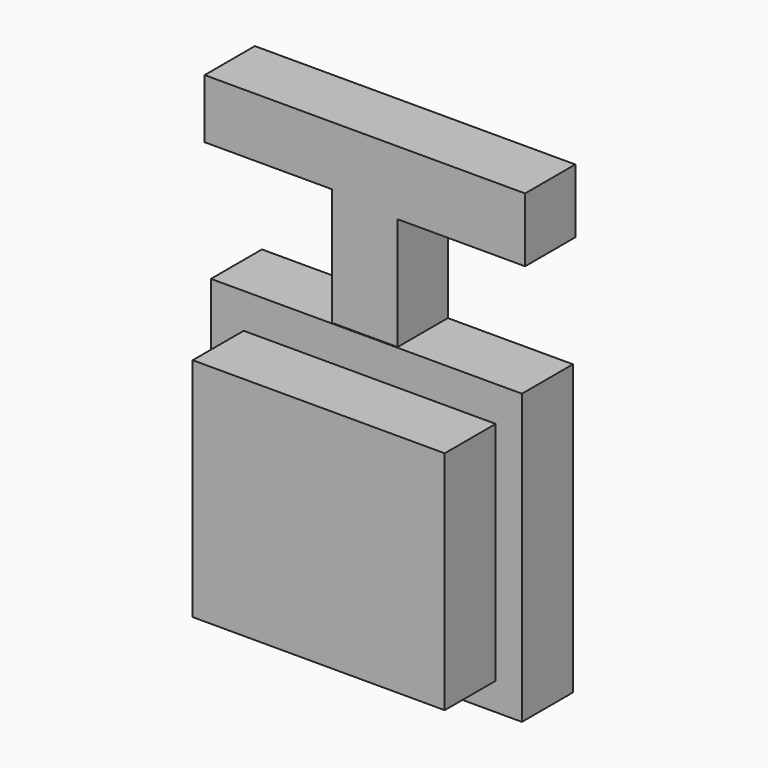
from build123d import *

# Parameters (mm, degrees)
F0_W     = 123.9526234567
F0_H     = 115.1683554053
F1_DEPTH = 25.4
F2_W     = 100.4445962608
F2_H     = 90.1500321925
F3_DEPTH = 50.8
F4_W     = 26.1205909774
F4_H     = 25.0108242035
F5_DEPTH = 127
F6_W     = 25.0108242035
F6_H     = 23.5706527233
F7_DEPTH = 50.8
F8_W     = 25.0108242035
F8_H     = 25.5720127821
F9_DEPTH = 50.8


with BuildPart() as f1:
    # F0 (on Front) → F1 (new body)
    with BuildSketch(Plane.XZ):
        with Locations((-0.3773439676, -1.0064095259)):
            Rectangle(F0_W, F0_H)
    extrude(amount=F1_DEPTH)

    # F2 (on Front) → F3 (join)
    with BuildSketch(Plane.XZ):
        with Locations((0.9114388376, -2.4853553623)):
            Rectangle(F2_W, F2_H)
    extrude(amount=F3_DEPTH)

    # F4 (on Top) → F5 (join)
    with BuildSketch(Plane.XY):
        with Locations((-1.3128877617, -12.5054121017)):
            Rectangle(F4_W, F4_H)
    extrude(amount=F5_DEPTH)

    # F6 (on face) → F7 (join)
    with BuildSketch(Plane(origin=(-14.3731832504, 0, 0), x_dir=(0, -1, 0), z_dir=(-1, 0, 0))):
        with Locations((12.5054121017, 115.2146736383)):
            Rectangle(F6_W, F6_H)
    extrude(amount=F7_DEPTH)

    # F8 (on face) → F9 (join)
    with BuildSketch(Plane.YZ.offset(11.7474077269)):
        with Locations((-12.5054121017, 114.213993609)):
            Rectangle(F8_W, F8_H)
    extrude(amount=F9_DEPTH)


solid = f1.part
